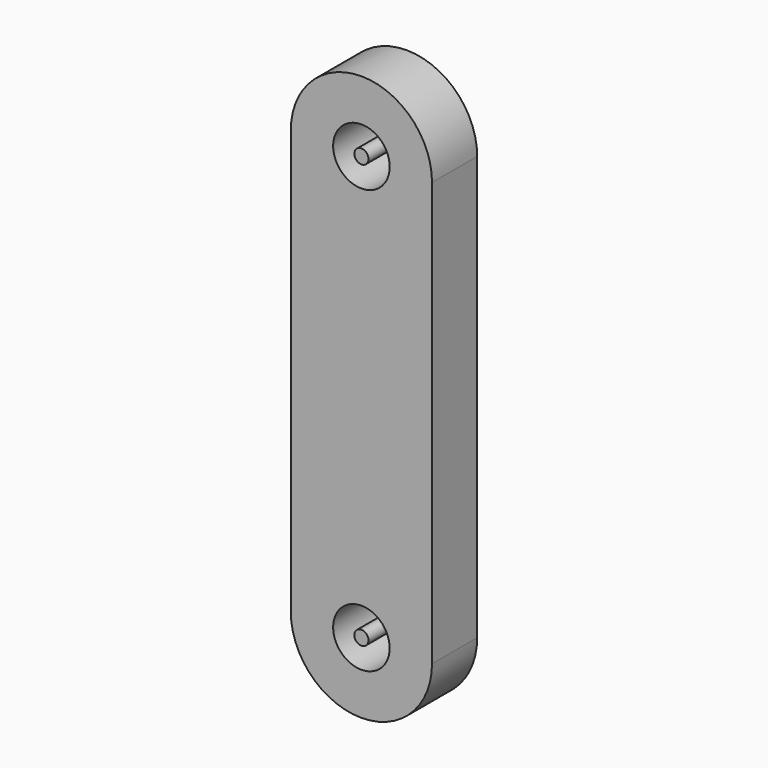
from build123d import *

# Parameters (mm, degrees)
F0_R     = 4
F1_DEPTH = 8
F2_R     = 1
F3_DEPTH = 8


with BuildPart() as f1:
    # F0 (on Front) → F1 (new body)
    with BuildSketch(Plane.XZ):
        with BuildLine():
            Line((-10, 60), (-10, 0))
            ThreePointArc((-10, 0), (0, -10), (10, 0))
            Line((10, 0), (10, 60))
            ThreePointArc((10, 60), (0, 70), (-10, 60))
        make_face()
        Circle(F0_R, mode=Mode.SUBTRACT)
        with Locations((0, 60)):
            Circle(F0_R, mode=Mode.SUBTRACT)
    extrude(amount=F1_DEPTH)


with BuildPart() as f3:
    # F2 (on Front) → F3 (new body)
    with BuildSketch(Plane.XZ):
        Circle(F2_R)
        with Locations((0, 60)):
            Circle(F2_R)
    extrude(amount=F3_DEPTH)


solid = Compound([f1.part, f3.part])
